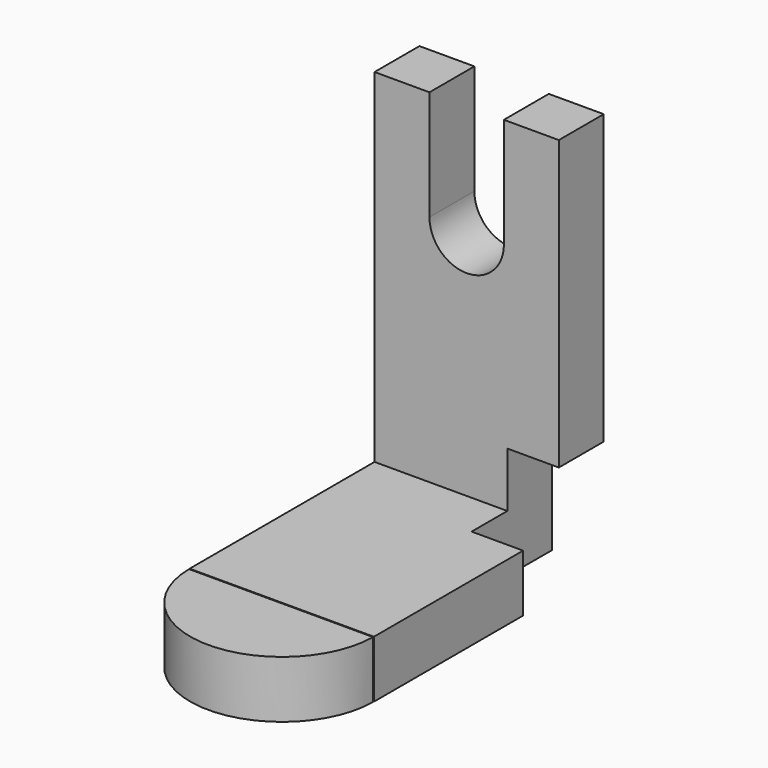
from build123d import *

# Parameters (mm, degrees)
F0_W     = 40.913024
F0_H     = 63.774832
F2_DEPTH = 12.7
F3_W     = 40.913024
F3_H     = 12.460528
F4_DEPTH = 76.2
F6_DEPTH = 25.4
F7_W     = 8.801125
F7_H     = 17.41853
F8_DEPTH = 11.43


with BuildPart() as f2:
    # F0 (on Top) + F1 (on face) → F2 (new body)
    with BuildSketch(Plane.XY):
        Rectangle(F0_W, F0_H)
    with BuildSketch(Plane.XY):
        with BuildLine():
            Line((20.432689, -32.090344), (-20.432689, -32.090344))
            ThreePointArc((-20.432689, -32.090344), (0, -52.237251), (20.432689, -32.090344))
        make_face()
    extrude(amount=F2_DEPTH)

    # F3 (on face) → F4 (join)
    with BuildSketch(Plane.XY.offset(12.7)):
        with Locations((0, 25.657152)):
            Rectangle(F3_W, F3_H)
    extrude(amount=F4_DEPTH)

    # F5 (on face) → F6 (cut)
    with BuildSketch(Plane.XZ.offset(-19.426888)):
        with BuildLine():
            Line((8.262424, 88.9), (-8.262424, 88.9))
            Line((-8.262424, 88.9), (-8.262424, 64.498752))
            ThreePointArc((-8.262424, 64.498752), (0, 56.236329), (8.262424, 64.498752))
            Line((8.262424, 64.498752), (8.262424, 88.9))
        make_face()
    extrude(amount=-F6_DEPTH, mode=Mode.SUBTRACT)

    # F7 (on face) → F8 (cut)
    with BuildSketch(Plane.YZ.offset(20.456512)):
        Polygon((19.426888, 24.901479), (19.426888, 17.41853), (19.426888, 12.7), (9.509583, 12.7), (9.509583, 0), (31.887416, 0), (31.887416, 17.41853), (31.887416, 24.901479), align=None)
        with Locations((36.287979, 8.709265)):
            Rectangle(F7_W, F7_H)
    extrude(amount=-F8_DEPTH, mode=Mode.SUBTRACT)


solid = f2.part
